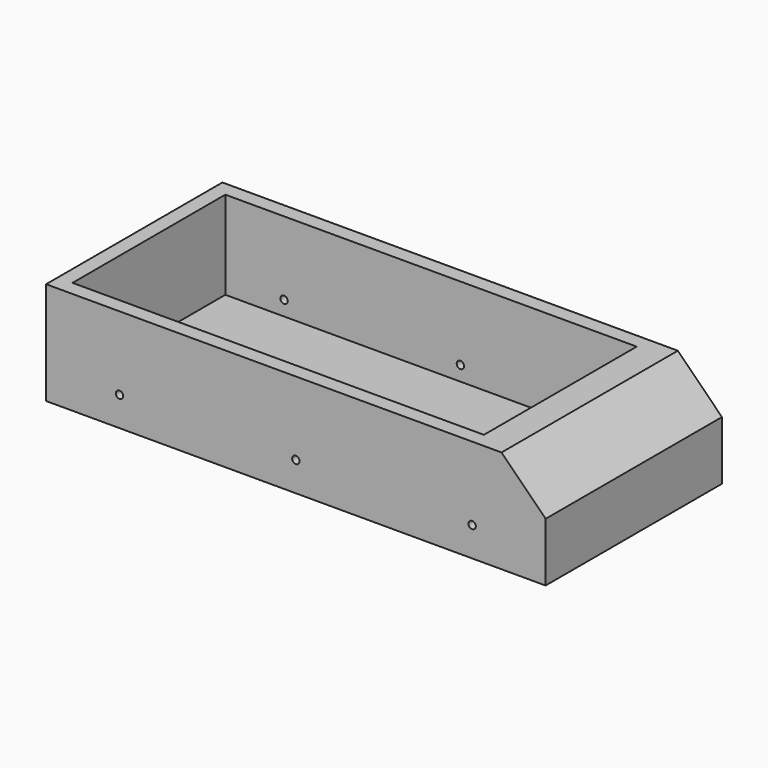
from build123d import *

# Parameters (mm, degrees)
F0_W     = 3000
F0_H     = 1500
F1_DEPTH = 700
F2_T     = -100
F3_DEPTH = 400
F4_SIZE  = 300
F6_D     = 50


with BuildPart() as f1:
    # F0 (on Top) → F1 (new body)
    with BuildSketch(Plane.XY):
        Rectangle(F0_W, F0_H)
    extrude(amount=F1_DEPTH)

    # F2
    f2_openings = [f1.faces().sort_by_distance(p)[0] for p in [
        (0, 0, 700),
    ]]
    offset(amount=F2_T, openings=f2_openings)

    # F3 (add): a face of the model
    f3_faces = [f1.faces().sort_by_distance(p)[0] for p in [
        (1500, 0, 350),
    ]]
    extrude(f3_faces, amount=F3_DEPTH)

    # F4
    f4_edges = [f1.edges().sort_by_distance(p)[0] for p in [
        (1900, 0, 700),
    ]]
    chamfer(f4_edges, length=F4_SIZE)

    # F6 (through all)
    with Locations(Plane.XZ.offset(750)):
        with Locations((200, 200), (-1000, 200), (1400, 200)):
            Hole(F6_D / 2)


solid = f1.part
